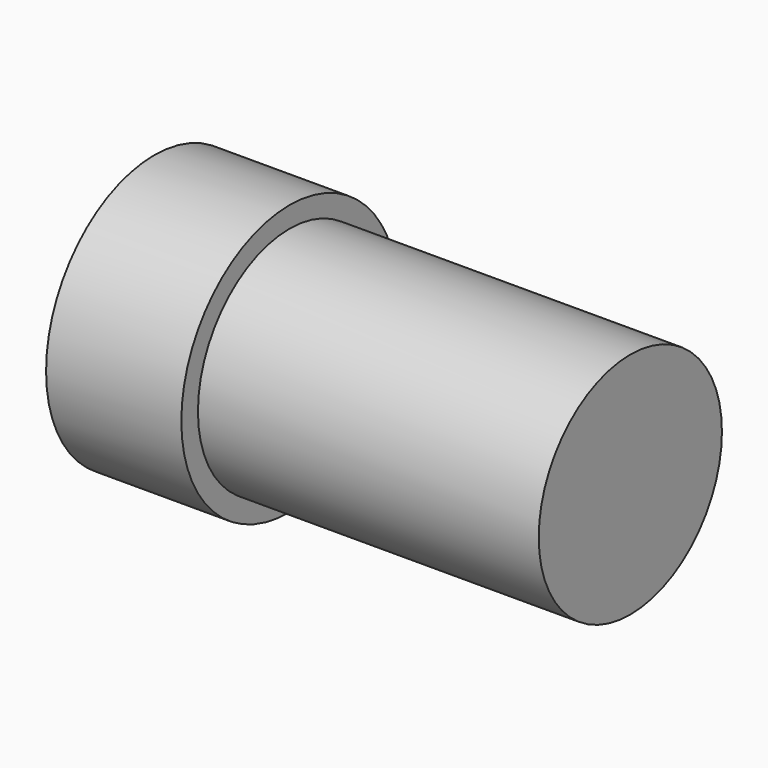
from build123d import *

# Parameters (mm, degrees)
F0_W = 32
F0_H = 10.75


with BuildPart() as f1:
    # F0 (on Front) → F1 (revolve)
    with BuildSketch(Plane.XZ):
        Polygon((0, 12.7), (0, 0), (12.7, 0), (12.7, 10.75), (12.7, 12.7), align=None)
        with Locations((28.7, 5.375)):
            Rectangle(F0_W, F0_H)
    revolve(axis=Axis((28.7, 0, 0), (1, 0, 0)))


solid = f1.part
